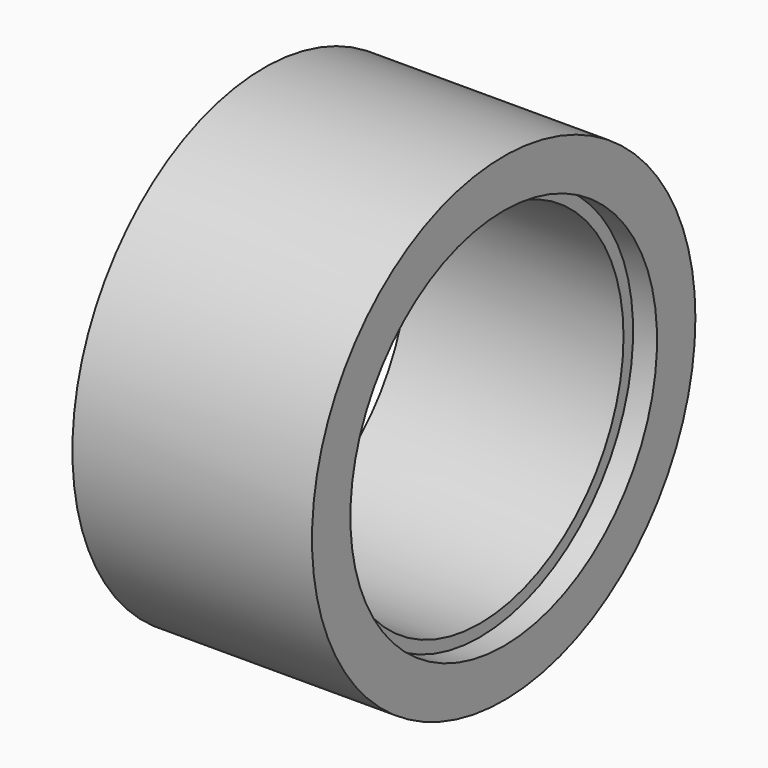
from build123d import *

# Parameters (mm, degrees)
F0_R     = 50.8
F0_R_2   = 38.1
F1_DEPTH = 50.8
F2_W     = 5.08
F2_H     = 5.08


with BuildPart() as f1:
    # F0 (on Right) → F1 (new body)
    with BuildSketch(Plane.YZ):
        Circle(F0_R)
        Circle(F0_R_2, mode=Mode.SUBTRACT)
    extrude(amount=F1_DEPTH)

    # F2 (on Front) → F3 (revolve, cut)
    with BuildSketch(Plane.XZ):
        with Locations((48.26, 38.1)):
            Rectangle(F2_W, F2_H)
    revolve(axis=Axis((50.8, 0, 0), (1, 0, 0)), mode=Mode.SUBTRACT)


solid = f1.part
